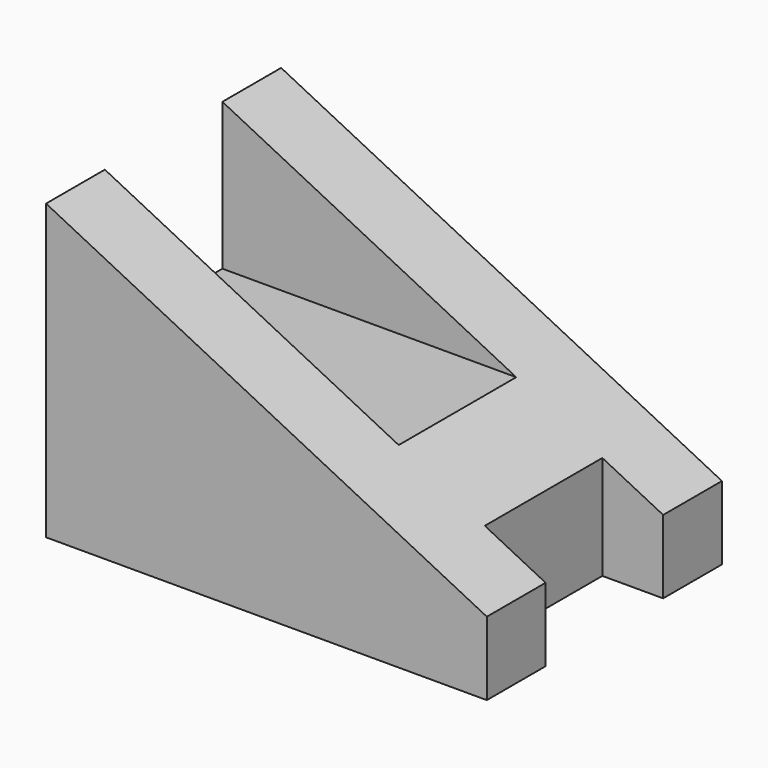
from build123d import *

# Parameters (mm, degrees)
F1_DEPTH = 20
F2_W     = 10
F2_H     = 10
F3_DEPTH = 25
F4_W     = 4.138582
F4_H     = 10
F5_DEPTH = 25


with BuildPart() as f1:
    # F0 (on Front) → F1 (new body)
    with BuildSketch(Plane.XZ):
        Polygon((0, 20), (0, 0), (30, 0), (30, 5), align=None)
    extrude(amount=-F1_DEPTH)

    # F2 (on Right) → F3 (cut)
    with BuildSketch(Plane.YZ):
        with Locations((10, 15)):
            Rectangle(F2_W, F2_H)
    extrude(amount=F3_DEPTH, mode=Mode.SUBTRACT)

    # F4 (on Top) → F5 (cut)
    with BuildSketch(Plane.XY):
        with Locations((27.930709, 10)):
            Rectangle(F4_W, F4_H)
    extrude(amount=F5_DEPTH, mode=Mode.SUBTRACT)


solid = f1.part
